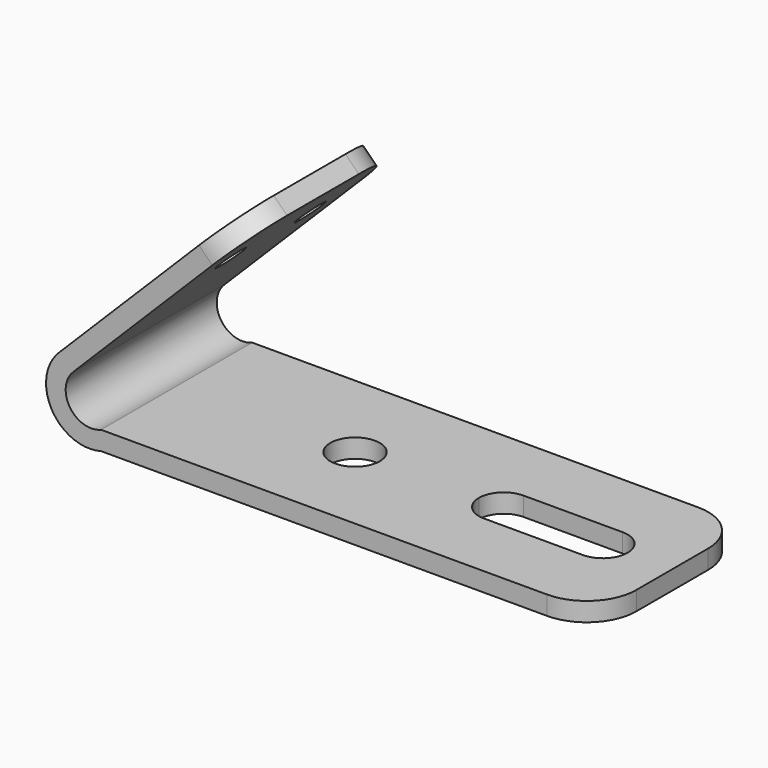
from build123d import *

# Parameters (mm, degrees)
F1_DEPTH = 483.87
F2_R     = 63.5
F3_DEPTH = 52.173089771
F4_R     = 38.1
F5_DEPTH = 50.8
F6_R     = 127
F7_R     = 127
F8_DEPTH = 52.173089771


with BuildPart() as f1:
    # F0 (on Front) → F1 (new body)
    with BuildSketch(Plane.XZ):
        with BuildLine():
            Line((130.1338967539, 242.9592923321), (96.0089234939, 277.0842655921))
            Line((96.0089234939, 277.0842655921), (-353.0038825596, -171.9285404613))
            ThreePointArc((-353.0038825596, -171.9285404613), (-370.6647202624, -307.0074831479), (-244.6667798626, -358.8027045558))
            Line((-244.6667798626, -358.8027045558), (1025.3332201374, -358.8027045558))
            Line((1025.3332201374, -358.8027045558), (1025.3332201374, -310.5427045558))
            Line((1025.3332201374, -310.5427045558), (-244.6667798626, -310.5427045558))
            ThreePointArc((-244.6667798626, -310.5427045558), (-324.3924314451, -286.3084555707), (-316.2091160387, -203.3837204605))
            Line((-316.2091160387, -203.3837204605), (130.1338967539, 242.9592923321))
        make_face()
    extrude(amount=F1_DEPTH)

    # F2 (on face) → F3 (cut, through all)
    with BuildSketch(Plane.XY.offset(-310.5427045558)):
        with Locations((212.5332201374, -241.935)):
            Circle(F2_R)
    extrude(amount=-F3_DEPTH, mode=Mode.SUBTRACT)

    # F4 (on face) → F5 (cut)
    with BuildSketch(Plane(origin=(-90.5376710491, 0, 90.5376710491), x_dir=(0, -1, 0), z_dir=(-0.7071067812, 0, 0.7071067812))):
        with Locations((114.3, 73.3167240172)):
            Circle(F4_R)
        with Locations((369.57, 73.3167240172)):
            Circle(F4_R)
    extrude(amount=-F5_DEPTH, mode=Mode.SUBTRACT)

    # F6
    f6_edges = [f1.edges().sort_by_distance(p)[0] for p in [
        (113.07141, 0, 260.021779),
        (113.07141, -483.87, 260.021779),
    ]]
    fillet(f6_edges, radius=F6_R)

    # F7
    f7_edges = [f1.edges().sort_by_distance(p)[0] for p in [
        (1025.33322, 0, -334.672705),
        (1025.33322, -483.87, -334.672705),
    ]]
    fillet(f7_edges, radius=F7_R)

    # F2 (on face) → F8 (cut, through all)
    with BuildSketch(Plane.XY.offset(-310.5427045558)):
        with BuildLine():
            Line((847.5332201374, -178.435), (593.5332201374, -178.435))
            ThreePointArc((593.5332201374, -178.435), (548.6332037777, -197.0202501392), (530.0332201374, -241.914165099))
            ThreePointArc((530.0332201374, -241.914165099), (548.6306760802, -286.8228125584), (593.5332201374, -305.435))
            Line((593.5332201374, -305.435), (847.5332201374, -305.435))
            ThreePointArc((847.5332201374, -305.435), (892.4345007428, -286.8362806053), (911.0332201374, -241.935))
            ThreePointArc((911.0332201374, -241.935), (892.4345007428, -197.0337193947), (847.5332201374, -178.435))
        make_face()
    extrude(amount=-F8_DEPTH, mode=Mode.SUBTRACT)


solid = f1.part
